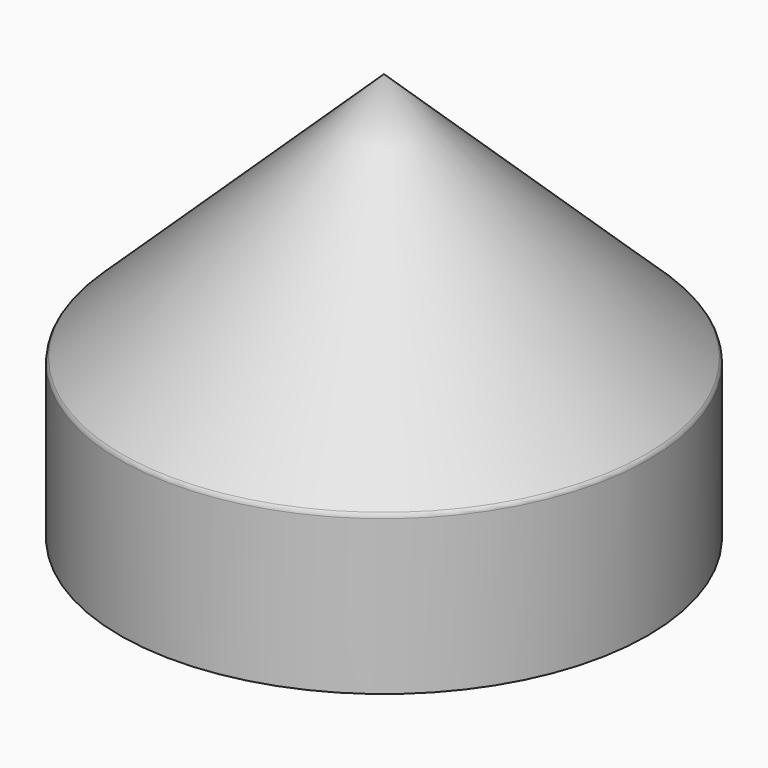
from build123d import *

# Parameters (mm, degrees)
F2_R = 12.7
F3_T = -3.175


with BuildPart() as f1:
    # F0 (on Front) → F1 (revolve)
    with BuildSketch(Plane.XZ):
        Polygon((0, 825.5), (0, 0), (533.4, 0), (533.4, 317.5), align=None)
    revolve(axis=Axis((0, 0, 412.75), (0, 0, 1)))

    # F2
    f2_edges = [f1.edges().sort_by_distance(p)[0] for p in [
        (-533.4, 0, 317.5),
    ]]
    fillet(f2_edges, radius=F2_R)

    # F3
    f3_openings = [f1.faces().sort_by_distance(p)[0] for p in [
        (0, 0, 0),
    ]]
    offset(amount=F3_T, openings=f3_openings)


solid = f1.part
